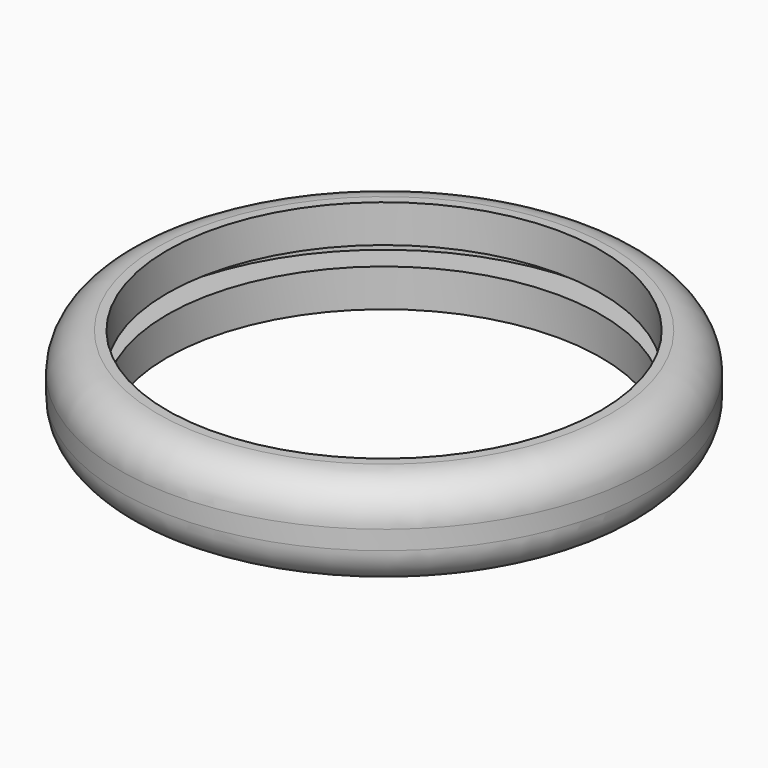
from build123d import *

# Parameters (mm, degrees)
F0_R     = 17.78
F1_DEPTH = 2.54
F2_R     = 17.78
F2_R_2   = 16.51
F3_DEPTH = 1.27
F4_R     = 17.78
F5_DEPTH = 2.54
F6_R     = 14.605
F7_DEPTH = 50.8
F8_R     = 2.54


with BuildPart() as f1:
    # F0 (on Top) → F1 (new body)
    with BuildSketch(Plane.XY):
        Circle(F0_R)
    extrude(amount=F1_DEPTH)

    # F2 (on face) → F3 (join)
    with BuildSketch(Plane.XY.offset(2.54)):
        Circle(F2_R)
        Circle(F2_R_2, mode=Mode.SUBTRACT)
    extrude(amount=F3_DEPTH)

    # F4 (on face) → F5 (join)
    with BuildSketch(Plane.XY.offset(3.81)):
        Circle(F4_R)
    extrude(amount=F5_DEPTH)

    # F6 (on face) → F7 (cut)
    with BuildSketch(Plane(origin=(0, 0, 0), x_dir=(1, 0, 0), z_dir=(0, 0, -1))):
        Circle(F6_R)
    extrude(amount=-F7_DEPTH, mode=Mode.SUBTRACT)

    # F8
    f8_edges = [f1.edges().sort_by_distance(p)[0] for p in [
        (-17.78, 0, 6.35),
        (-17.78, 0, 0),
    ]]
    fillet(f8_edges, radius=F8_R)


solid = f1.part
